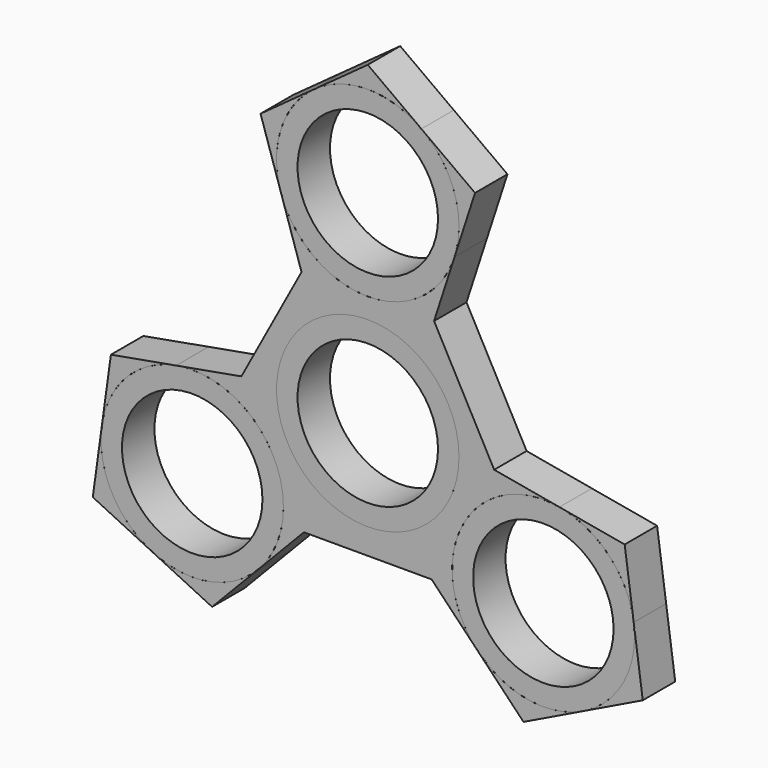
from build123d import *

# Parameters (mm, degrees)
F2_DEPTH = 6.35
F1_R     = 14.2875
F0_R     = 14.2875
F0_R_2   = 10.9982


with BuildPart() as f2:
    # F1 (on Front) → F2 (new body)
    with BuildSketch(Plane.XZ):
        with BuildLine():
            ThreePointArc((-8.3979814229, 43.3088305754), (1.363e-07, 46.0375), (8.3979816434, 43.3088304152))
            Line((8.3979816434, 43.3088304152), (0, 49.4103212285))
            Line((0, 49.4103212285), (-8.3979814229, 43.3088305754))
        make_face()
    extrude(amount=F2_DEPTH)


with BuildPart() as f2b:
    # F1 (on Front) → F2, piece 2 (new body)
    with BuildSketch(Plane.XZ):
        with BuildLine():
            ThreePointArc((8.3979816434, 43.3088304152), (12.7302556726, 38.2363893469), (14.2875, 31.75))
            ThreePointArc((14.2875, 31.75), (14.1115971627, 29.5149425581), (13.5882199624, 27.3349196492))
            Line((13.5882199624, 27.3349196492), (16.7959635843, 37.2073393857))
            Line((16.7959635843, 37.2073393857), (8.3979816434, 43.3088304152))
        make_face()
    extrude(amount=F2_DEPTH)


with BuildPart() as f2c:
    # F1 (on Front) → F2, piece 3 (new body)
    with BuildSketch(Plane.XZ):
        with BuildLine():
            Line((10.3804763689, 17.4625), (13.5882199624, 27.3349196492))
            ThreePointArc((13.5882199624, 27.3349196492), (8.3979817736, 20.1911696794), (0, 17.4625))
            Line((0, 17.4625), (10.3804763689, 17.4625))
        make_face()
        with BuildLine():
            Line((-10.3804763689, 17.4625), (0, 17.4625))
            ThreePointArc((0, 17.4625), (-8.3979818829, 20.1911697588), (-13.5882200459, 27.3349199063))
            Line((-13.5882200459, 27.3349199063), (-10.3804763689, 17.4625))
        make_face()
        Polygon((10.3804763689, 17.4625), (0, 17.4625), (-10.3804763689, 17.4625), (-19.7954741612, 0.01789546), (-14.8985256383, -9.1349279051), (-10.0015766949, -18.2877520565), (10.0015766949, -18.2877520565), (14.8985257481, -9.1349277), (19.7954741612, 0.01789546), align=None)
        Circle(F1_R, mode=Mode.SUBTRACT)
        with BuildLine():
            Line((30.013567735, -1.8110015473), (19.7954741612, 0.01789546))
            Line((19.7954741612, 0.01789546), (14.8985257481, -9.1349277))
            ThreePointArc((14.8985257481, -9.1349277), (21.266202822, -3.0173772206), (30.013567735, -1.8110015473))
        make_face()
        with BuildLine():
            ThreePointArc((17.1931887816, -25.7734049263), (13.3427727218, -17.8269569294), (14.8985257481, -9.1349277))
            Line((14.8985257481, -9.1349277), (10.0015766949, -18.2877520565))
            Line((10.0015766949, -18.2877520565), (17.1931887816, -25.7734049263))
        make_face()
        with BuildLine():
            Line((-14.8985256383, -9.1349279051), (-19.7954741612, 0.01789546))
            Line((-19.7954741612, 0.01789546), (-30.0135673402, -1.8110014766))
            ThreePointArc((-30.0135673402, -1.8110014766), (-21.2662025369, -3.0173773588), (-14.8985256383, -9.1349279051))
        make_face()
        with BuildLine():
            Line((-10.0015766949, -18.2877520565), (-14.8985256383, -9.1349279051))
            ThreePointArc((-14.8985256383, -9.1349279051), (-13.6376729558, -12.4006755198), (-13.2088065702, -15.875))
            ThreePointArc((-13.2088065702, -15.875), (-14.242279946, -21.2101133535), (-17.1931893516, -25.7734055196))
            Line((-17.1931893516, -25.7734055196), (-10.0015766949, -18.2877520565))
        make_face()
    extrude(amount=F2_DEPTH)


with BuildPart() as f2d:
    # F1 (on Front) → F2, piece 4 (new body)
    with BuildSketch(Plane.XZ):
        with BuildLine():
            ThreePointArc((-13.5882200459, 27.3349199063), (-13.5882198714, 36.1650806309), (-8.3979814229, 43.3088305754))
            Line((-8.3979814229, 43.3088305754), (-16.7959635843, 37.2073393857))
            Line((-16.7959635843, 37.2073393857), (-13.5882200459, 27.3349199063))
        make_face()
    extrude(amount=F2_DEPTH)


with BuildPart() as f2e:
    # F1 (on Front) → F2, piece 5 (new body)
    with BuildSketch(Plane.XZ):
        with BuildLine():
            Line((43.0680204275, -24.2061867966), (41.649840386, -13.9230428349))
            ThreePointArc((41.649840386, -13.9230428349), (41.7502756778, -14.8967255354), (41.7838065702, -15.875))
            ThreePointArc((41.7838065702, -15.875), (39.603025178, -23.4618320662), (33.7264108326, -28.7326225302))
            Line((33.7264108326, -28.7326225302), (43.0680204275, -24.2061867966))
        make_face()
    extrude(amount=F2_DEPTH)


with BuildPart() as f2f:
    # F1 (on Front) → F2, piece 6 (new body)
    with BuildSketch(Plane.XZ):
        with BuildLine():
            ThreePointArc((33.7264108326, -28.7326225302), (24.9790457568, -29.9389985156), (17.1931887816, -25.7734049263))
            Line((17.1931887816, -25.7734049263), (24.3848012922, -33.2590582374))
            Line((24.3848012922, -33.2590582374), (33.7264108326, -28.7326225302))
        make_face()
    extrude(amount=F2_DEPTH)


with BuildPart() as f2g:
    # F1 (on Front) → F2, piece 7 (new body)
    with BuildSketch(Plane.XZ):
        with BuildLine():
            Line((40.231660275, -3.6398983696), (30.013567735, -1.8110015473))
            ThreePointArc((30.013567735, -1.8110015473), (37.7994244167, -5.9765951341), (41.649840386, -13.9230428349))
            Line((41.649840386, -13.9230428349), (40.231660275, -3.6398983696))
        make_face()
    extrude(amount=F2_DEPTH)


with BuildPart() as f2h:
    # F1 (on Front) → F2, piece 8 (new body)
    with BuildSketch(Plane.XZ):
        with BuildLine():
            Line((-24.3848012922, -33.2590582374), (-17.1931893516, -25.7734055196))
            ThreePointArc((-17.1931893516, -25.7734055196), (-24.9790461617, -29.9389985881), (-33.7264108326, -28.7326225302))
            Line((-33.7264108326, -28.7326225302), (-24.3848012922, -33.2590582374))
        make_face()
    extrude(amount=F2_DEPTH)


with BuildPart() as f2i:
    # F1 (on Front) → F2, piece 9 (new body)
    with BuildSketch(Plane.XZ):
        with BuildLine():
            ThreePointArc((-33.7264108326, -28.7326225302), (-40.0940877018, -22.6150717213), (-41.6498403532, -13.923042597))
            Line((-41.6498403532, -13.923042597), (-43.0680204275, -24.2061867966))
            Line((-43.0680204275, -24.2061867966), (-33.7264108326, -28.7326225302))
        make_face()
    extrude(amount=F2_DEPTH)


with BuildPart() as f2j:
    # F1 (on Front) → F2, piece 10 (new body)
    with BuildSketch(Plane.XZ):
        with BuildLine():
            ThreePointArc((-41.6498403532, -13.923042597), (-37.7994241946, -5.9765949029), (-30.0135673402, -1.8110014766))
            Line((-30.0135673402, -1.8110014766), (-40.231660275, -3.6398983696))
            Line((-40.231660275, -3.6398983696), (-41.6498403532, -13.923042597))
        make_face()
    extrude(amount=F2_DEPTH)


with BuildPart() as f2k:
    # F0 (on Front) → F2, piece 11 (new body)
    with BuildSketch(Plane.XZ):
        with Locations((0, 31.75)):
            Circle(F0_R)
        with Locations((0, 31.75)):
            Circle(F0_R_2, mode=Mode.SUBTRACT)
    extrude(amount=F2_DEPTH)


with BuildPart() as f2l:
    # F0 (on Front) → F2, piece 12 (new body)
    with BuildSketch(Plane.XZ):
        Circle(F0_R)
        Circle(F0_R_2, mode=Mode.SUBTRACT)
    extrude(amount=F2_DEPTH)


with BuildPart() as f2m:
    # F0 (on Front) → F2, piece 13 (new body)
    with BuildSketch(Plane.XZ):
        with Locations((27.4963065702, -15.875)):
            Circle(F0_R)
        with Locations((27.4963065702, -15.875)):
            Circle(F0_R_2, mode=Mode.SUBTRACT)
    extrude(amount=F2_DEPTH)


with BuildPart() as f2n:
    # F0 (on Front) → F2, piece 14 (new body)
    with BuildSketch(Plane.XZ):
        with Locations((-27.4963065702, -15.875)):
            Circle(F0_R)
        with Locations((-27.4963065702, -15.875)):
            Circle(F0_R_2, mode=Mode.SUBTRACT)
    extrude(amount=F2_DEPTH)


solid = Compound([f2.part, f2b.part, f2c.part, f2d.part, f2e.part, f2f.part, f2g.part, f2h.part, f2i.part, f2j.part, f2k.part, f2l.part, f2m.part, f2n.part])
